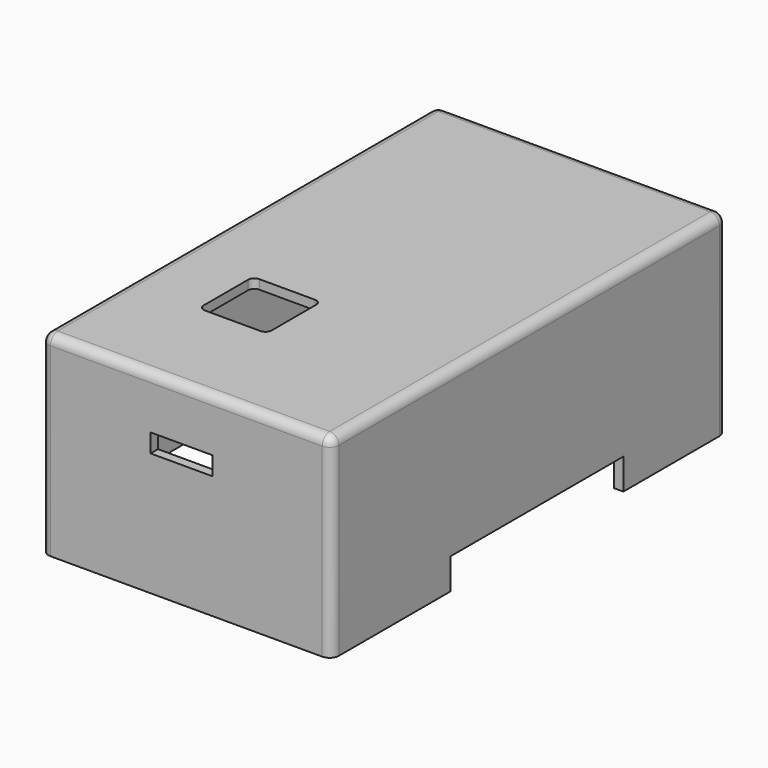
from build123d import *

# Parameters (mm, degrees)
SKETCH011_AS_DRAWN_W                 = 10
SKETCH011_AS_DRAWN_H                 = 3
EXTRUDE005_DEPTH                     = 10
EXTRUDE005_ONTO_SKETCH011_ROLL_ANGLE = 90
BOX_W                                = 11
BOX_H                                = 11
BOX_DEPTH                            = 10
FILLET001_R                          = 1
SKETCH007_W                          = 62.8586
SKETCH007_H                          = 35
EXTRUDE003_DEPTH                     = 5
CYLINDER_R                           = 2
CYLINDER_DEPTH                       = 40
SKETCH003_W                          = 44
SKETCH003_H                          = 77
PAD_DEPTH                            = 30
THICKNESS_T                          = 1.5
SKETCH005_R                          = 2
SKETCH005_R_2                        = 1
PAD001_DEPTH                         = 3
EXTRUDE004_DEPTH                     = 5


with BuildPart() as extrude005:
    # Sketch011 as drawn → Extrude005 (new)
    with BuildSketch(Plane.XY):
        with Locations((10.197845, 12.338122)):
            Rectangle(SKETCH011_AS_DRAWN_W, SKETCH011_AS_DRAWN_H)
    extrude(amount=-EXTRUDE005_DEPTH)


with BuildPart() as extrude005_1:
    # Extrude005 onto Sketch011 roll: moved
    add(extrude005.part.rotate(Axis((0, 0, 0), (1, 0, 0)), EXTRUDE005_ONTO_SKETCH011_ROLL_ANGLE))


with BuildPart() as extrude005_2:
    # Extrude005 onto Sketch011 placement: moved
    add(extrude005_1.part.moved(Location((0, -139, 0))))


with BuildPart() as fillet001:
    # Box → Box (new body)
    with BuildSketch(Plane.XY):
        with Locations((5.5, 5.5)):
            Rectangle(BOX_W, BOX_H)
    extrude(amount=BOX_DEPTH)

    # Fillet001
    fillet001_edges = [fillet001.edges().sort_by_distance(p)[0] for p in [
        (0, 0, 5),
        (0, 11, 5),
        (11, 0, 5),
        (11, 11, 5),
    ]]
    fillet(fillet001_edges, radius=FILLET001_R)


with BuildPart() as fillet001_1:
    # Fillet001 placement: moved
    add(fillet001.part.moved(Location((-1, -118, 14))))


with BuildPart() as extrude003:
    # Sketch007 → Extrude003 (new body)
    with BuildSketch(Plane.XY):
        with Locations((11.4293, -93.929395)):
            Rectangle(SKETCH007_W, SKETCH007_H)
    extrude(amount=EXTRUDE003_DEPTH)


with BuildPart() as cilindro:
    # Cylinder → Cylinder (new body)
    with BuildSketch(Plane(origin=(-29, 21, -2), x_dir=(1, 0, 0), z_dir=(0, 0, 1))):
        Circle(CYLINDER_R)
    extrude(amount=CYLINDER_DEPTH)


with BuildPart() as cut:
    # Sketch003 → Pad (new body)
    with BuildSketch(Plane(origin=(0, 0, 0), x_dir=(-1, 0, 0), z_dir=(0, 0, -1))):
        with Locations((22, 38.5)):
            Rectangle(SKETCH003_W, SKETCH003_H)
    extrude(amount=PAD_DEPTH)

    # Thickness
    thickness_openings = [cut.faces().sort_by_distance(p)[0] for p in [
        (-22, 38.5, -30),
    ]]
    offset(amount=THICKNESS_T, openings=thickness_openings)


with BuildPart() as cut_1:
    # Thickness placement: moved
    add(cut.part.moved(Location((9e-06, 2.6e-05, 20.905646))))

    # Cut: cut Cilindro
    add(cilindro.part, mode=Mode.SUBTRACT)


with BuildPart() as cut003:
    # Sketch005 → Pad001 (new body)
    with BuildSketch(Plane(origin=(0, 0, 21), x_dir=(1, 0, 0), z_dir=(0, 0, -1))):
        with Locations((-32, -10)):
            Circle(SKETCH005_R)
        with Locations((-32, -10)):
            Circle(SKETCH005_R_2, mode=Mode.SUBTRACT)
    extrude(amount=PAD001_DEPTH)

    # Fusion: union Cut
    add(cut_1.part)


with BuildPart() as cut003_1:
    # Fusion placement: moved
    add(cut003.part.moved(Location((32.999991, -134.000034, 9.094354))))

    # Cut001: cut Extrude003
    add(extrude003.part, mode=Mode.SUBTRACT)


with BuildPart() as cut003_2:
    # Cut001 placement: moved
    add(cut003_1.part.moved(Location((0, 0, -9.094209))))

    # Cut002: cut Fillet001
    add(fillet001_1.part, mode=Mode.SUBTRACT)

    # Cut003: cut Extrude005
    add(extrude005_2.part, mode=Mode.SUBTRACT)


with BuildPart() as fusion002:
    # Sketch009 → Extrude004 (new body)
    with BuildSketch(Plane.YZ.offset(15)):
        Polygon((-79.324959, 21), (-79.324959, 15), (-82.324959, 15), (-82.324959, 16), (-81.324959, 16), (-81.324959, 18), (-83.324959, 18), (-83.324959, 21), align=None)
    extrude(amount=EXTRUDE004_DEPTH)

    # Fusion002: union Cut003
    add(cut003_2.part)


solid = fusion002.part
